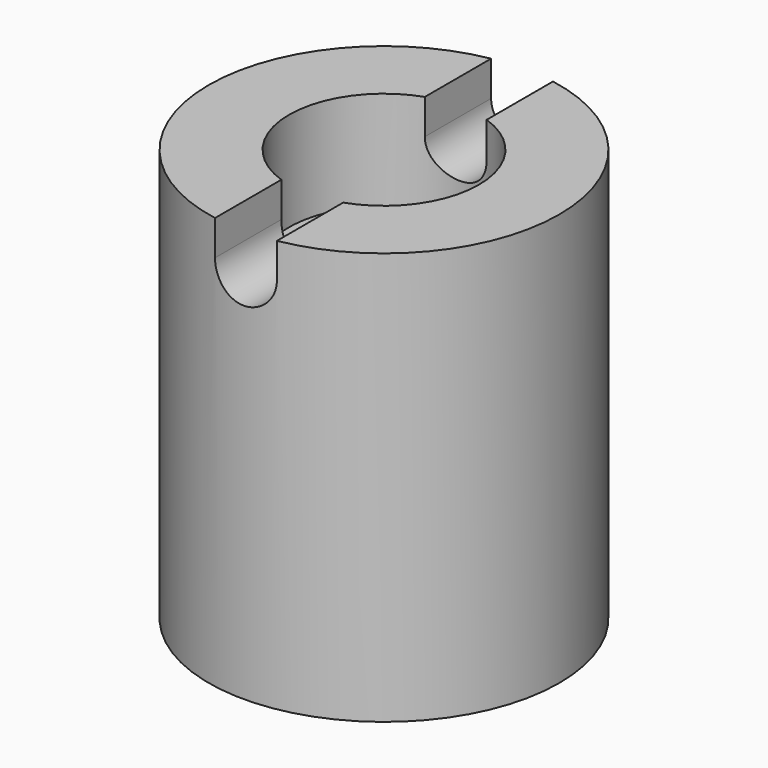
from build123d import *

# Parameters (mm, degrees)
F0_R     = 8.5
F1_DEPTH = 20
F2_R     = 4.6
F3_DEPTH = 4.8
F5_DEPTH = 12.5
F6_W     = 6.6
F6_H     = 6.6
F7_DEPTH = 7


with BuildPart() as f1:
    # F0 (on Top) → F1 (new body)
    with BuildSketch(Plane.XY):
        Circle(F0_R)
    extrude(amount=F1_DEPTH)

    # F2 (on face) → F3 (cut)
    with BuildSketch(Plane.XY.offset(20)):
        Circle(F2_R)
    extrude(amount=-F3_DEPTH, mode=Mode.SUBTRACT)

    # F4 (on Front) → F5 (cut, symmetric)
    with BuildSketch(Plane.XZ):
        with BuildLine():
            Line((-1.5, 20), (-1.5, 18.3))
            ThreePointArc((-1.5, 18.3), (0, 16.8), (1.5, 18.3))
            Line((1.5, 18.3), (1.5, 20))
            Line((1.5, 20), (-1.5, 20))
        make_face()
    extrude(amount=F5_DEPTH, both=True, mode=Mode.SUBTRACT)

    # F6 (on face) → F7 (cut)
    with BuildSketch(Plane(origin=(0, 0, 0), x_dir=(1, 0, 0), z_dir=(0, 0, -1))):
        Rectangle(F6_W, F6_H)
    extrude(amount=-F7_DEPTH, mode=Mode.SUBTRACT)


solid = f1.part
